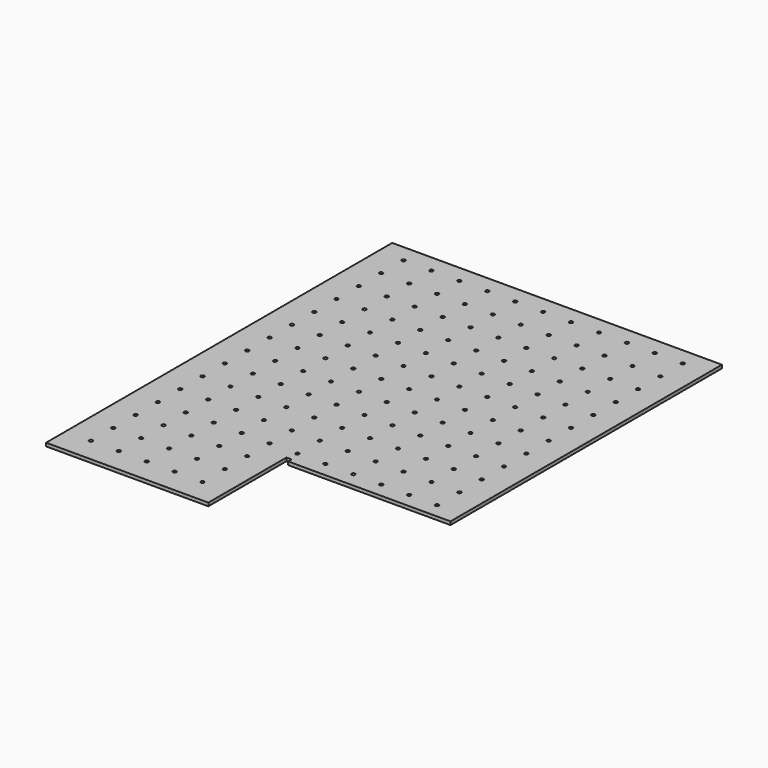
from build123d import *

# Parameters (mm, degrees)
SKETCH_R      = 3.175
EXTRUDE_DEPTH = 5.9944


with BuildPart() as part:
    # Sketch → Extrude (new body)
    with BuildSketch(Plane.XY):
        Polygon((0, 0), (600.075, 0), (600.075, -617.5502), (304.8, -617.5502), (304.8, -609.6), (295.275, -609.6), (295.275, -787.4), (0, -787.4), align=None)
        with Locations((46.0502, -31.75)):
            Circle(SKETCH_R, mode=Mode.SUBTRACT)
        with Locations((96.8502, -31.75)):
            Circle(SKETCH_R, mode=Mode.SUBTRACT)
        with Locations((147.6502, -31.75)):
            Circle(SKETCH_R, mode=Mode.SUBTRACT)
        with Locations((198.4502, -31.75)):
            Circle(SKETCH_R, mode=Mode.SUBTRACT)
        with Locations((249.2502, -31.75)):
            Circle(SKETCH_R, mode=Mode.SUBTRACT)
        with Locations((300.0502, -31.75)):
            Circle(SKETCH_R, mode=Mode.SUBTRACT)
        with Locations((350.8502, -31.75)):
            Circle(SKETCH_R, mode=Mode.SUBTRACT)
        with Locations((401.6502, -31.75)):
            Circle(SKETCH_R, mode=Mode.SUBTRACT)
        with Locations((452.4502, -31.75)):
            Circle(SKETCH_R, mode=Mode.SUBTRACT)
        with Locations((503.2502, -31.75)):
            Circle(SKETCH_R, mode=Mode.SUBTRACT)
        with Locations((554.0502, -31.75)):
            Circle(SKETCH_R, mode=Mode.SUBTRACT)
        with Locations((46.0502, -82.55)):
            Circle(SKETCH_R, mode=Mode.SUBTRACT)
        with Locations((96.8502, -82.55)):
            Circle(SKETCH_R, mode=Mode.SUBTRACT)
        with Locations((147.6502, -82.55)):
            Circle(SKETCH_R, mode=Mode.SUBTRACT)
        with Locations((198.4502, -82.55)):
            Circle(SKETCH_R, mode=Mode.SUBTRACT)
        with Locations((249.2502, -82.55)):
            Circle(SKETCH_R, mode=Mode.SUBTRACT)
        with Locations((300.0502, -82.55)):
            Circle(SKETCH_R, mode=Mode.SUBTRACT)
        with Locations((350.8502, -82.55)):
            Circle(SKETCH_R, mode=Mode.SUBTRACT)
        with Locations((401.6502, -82.55)):
            Circle(SKETCH_R, mode=Mode.SUBTRACT)
        with Locations((452.4502, -82.55)):
            Circle(SKETCH_R, mode=Mode.SUBTRACT)
        with Locations((503.2502, -82.55)):
            Circle(SKETCH_R, mode=Mode.SUBTRACT)
        with Locations((554.0502, -82.55)):
            Circle(SKETCH_R, mode=Mode.SUBTRACT)
        with Locations((46.0502, -133.35)):
            Circle(SKETCH_R, mode=Mode.SUBTRACT)
        with Locations((96.8502, -133.35)):
            Circle(SKETCH_R, mode=Mode.SUBTRACT)
        with Locations((147.6502, -133.35)):
            Circle(SKETCH_R, mode=Mode.SUBTRACT)
        with Locations((198.4502, -133.35)):
            Circle(SKETCH_R, mode=Mode.SUBTRACT)
        with Locations((249.2502, -133.35)):
            Circle(SKETCH_R, mode=Mode.SUBTRACT)
        with Locations((300.0502, -133.35)):
            Circle(SKETCH_R, mode=Mode.SUBTRACT)
        with Locations((350.8502, -133.35)):
            Circle(SKETCH_R, mode=Mode.SUBTRACT)
        with Locations((401.6502, -133.35)):
            Circle(SKETCH_R, mode=Mode.SUBTRACT)
        with Locations((452.4502, -133.35)):
            Circle(SKETCH_R, mode=Mode.SUBTRACT)
        with Locations((503.2502, -133.35)):
            Circle(SKETCH_R, mode=Mode.SUBTRACT)
        with Locations((554.0502, -133.35)):
            Circle(SKETCH_R, mode=Mode.SUBTRACT)
        with Locations((46.0502, -184.15)):
            Circle(SKETCH_R, mode=Mode.SUBTRACT)
        with Locations((96.8502, -184.15)):
            Circle(SKETCH_R, mode=Mode.SUBTRACT)
        with Locations((147.6502, -184.15)):
            Circle(SKETCH_R, mode=Mode.SUBTRACT)
        with Locations((198.4502, -184.15)):
            Circle(SKETCH_R, mode=Mode.SUBTRACT)
        with Locations((249.2502, -184.15)):
            Circle(SKETCH_R, mode=Mode.SUBTRACT)
        with Locations((300.0502, -184.15)):
            Circle(SKETCH_R, mode=Mode.SUBTRACT)
        with Locations((350.8502, -184.15)):
            Circle(SKETCH_R, mode=Mode.SUBTRACT)
        with Locations((401.6502, -184.15)):
            Circle(SKETCH_R, mode=Mode.SUBTRACT)
        with Locations((452.4502, -184.15)):
            Circle(SKETCH_R, mode=Mode.SUBTRACT)
        with Locations((503.2502, -184.15)):
            Circle(SKETCH_R, mode=Mode.SUBTRACT)
        with Locations((554.0502, -184.15)):
            Circle(SKETCH_R, mode=Mode.SUBTRACT)
        with Locations((46.0502, -234.95)):
            Circle(SKETCH_R, mode=Mode.SUBTRACT)
        with Locations((96.8502, -234.95)):
            Circle(SKETCH_R, mode=Mode.SUBTRACT)
        with Locations((147.6502, -234.95)):
            Circle(SKETCH_R, mode=Mode.SUBTRACT)
        with Locations((198.4502, -234.95)):
            Circle(SKETCH_R, mode=Mode.SUBTRACT)
        with Locations((249.2502, -234.95)):
            Circle(SKETCH_R, mode=Mode.SUBTRACT)
        with Locations((300.0502, -234.95)):
            Circle(SKETCH_R, mode=Mode.SUBTRACT)
        with Locations((350.8502, -234.95)):
            Circle(SKETCH_R, mode=Mode.SUBTRACT)
        with Locations((401.6502, -234.95)):
            Circle(SKETCH_R, mode=Mode.SUBTRACT)
        with Locations((452.4502, -234.95)):
            Circle(SKETCH_R, mode=Mode.SUBTRACT)
        with Locations((503.2502, -234.95)):
            Circle(SKETCH_R, mode=Mode.SUBTRACT)
        with Locations((554.0502, -234.95)):
            Circle(SKETCH_R, mode=Mode.SUBTRACT)
        with Locations((46.0502, -285.75)):
            Circle(SKETCH_R, mode=Mode.SUBTRACT)
        with Locations((96.8502, -285.75)):
            Circle(SKETCH_R, mode=Mode.SUBTRACT)
        with Locations((147.6502, -285.75)):
            Circle(SKETCH_R, mode=Mode.SUBTRACT)
        with Locations((198.4502, -285.75)):
            Circle(SKETCH_R, mode=Mode.SUBTRACT)
        with Locations((249.2502, -285.75)):
            Circle(SKETCH_R, mode=Mode.SUBTRACT)
        with Locations((300.0502, -285.75)):
            Circle(SKETCH_R, mode=Mode.SUBTRACT)
        with Locations((350.8502, -285.75)):
            Circle(SKETCH_R, mode=Mode.SUBTRACT)
        with Locations((401.6502, -285.75)):
            Circle(SKETCH_R, mode=Mode.SUBTRACT)
        with Locations((452.4502, -285.75)):
            Circle(SKETCH_R, mode=Mode.SUBTRACT)
        with Locations((503.2502, -285.75)):
            Circle(SKETCH_R, mode=Mode.SUBTRACT)
        with Locations((554.0502, -285.75)):
            Circle(SKETCH_R, mode=Mode.SUBTRACT)
        with Locations((46.0502, -336.55)):
            Circle(SKETCH_R, mode=Mode.SUBTRACT)
        with Locations((96.8502, -336.55)):
            Circle(SKETCH_R, mode=Mode.SUBTRACT)
        with Locations((147.6502, -336.55)):
            Circle(SKETCH_R, mode=Mode.SUBTRACT)
        with Locations((198.4502, -336.55)):
            Circle(SKETCH_R, mode=Mode.SUBTRACT)
        with Locations((249.2502, -336.55)):
            Circle(SKETCH_R, mode=Mode.SUBTRACT)
        with Locations((300.0502, -336.55)):
            Circle(SKETCH_R, mode=Mode.SUBTRACT)
        with Locations((350.8502, -336.55)):
            Circle(SKETCH_R, mode=Mode.SUBTRACT)
        with Locations((401.6502, -336.55)):
            Circle(SKETCH_R, mode=Mode.SUBTRACT)
        with Locations((452.4502, -336.55)):
            Circle(SKETCH_R, mode=Mode.SUBTRACT)
        with Locations((503.2502, -336.55)):
            Circle(SKETCH_R, mode=Mode.SUBTRACT)
        with Locations((554.0502, -336.55)):
            Circle(SKETCH_R, mode=Mode.SUBTRACT)
        with Locations((46.0502, -387.35)):
            Circle(SKETCH_R, mode=Mode.SUBTRACT)
        with Locations((96.8502, -387.35)):
            Circle(SKETCH_R, mode=Mode.SUBTRACT)
        with Locations((147.6502, -387.35)):
            Circle(SKETCH_R, mode=Mode.SUBTRACT)
        with Locations((198.4502, -387.35)):
            Circle(SKETCH_R, mode=Mode.SUBTRACT)
        with Locations((249.2502, -387.35)):
            Circle(SKETCH_R, mode=Mode.SUBTRACT)
        with Locations((300.0502, -387.35)):
            Circle(SKETCH_R, mode=Mode.SUBTRACT)
        with Locations((350.8502, -387.35)):
            Circle(SKETCH_R, mode=Mode.SUBTRACT)
        with Locations((401.6502, -387.35)):
            Circle(SKETCH_R, mode=Mode.SUBTRACT)
        with Locations((452.4502, -387.35)):
            Circle(SKETCH_R, mode=Mode.SUBTRACT)
        with Locations((503.2502, -387.35)):
            Circle(SKETCH_R, mode=Mode.SUBTRACT)
        with Locations((554.0502, -387.35)):
            Circle(SKETCH_R, mode=Mode.SUBTRACT)
        with Locations((46.0502, -438.15)):
            Circle(SKETCH_R, mode=Mode.SUBTRACT)
        with Locations((96.8502, -438.15)):
            Circle(SKETCH_R, mode=Mode.SUBTRACT)
        with Locations((147.6502, -438.15)):
            Circle(SKETCH_R, mode=Mode.SUBTRACT)
        with Locations((198.4502, -438.15)):
            Circle(SKETCH_R, mode=Mode.SUBTRACT)
        with Locations((249.2502, -438.15)):
            Circle(SKETCH_R, mode=Mode.SUBTRACT)
        with Locations((300.0502, -438.15)):
            Circle(SKETCH_R, mode=Mode.SUBTRACT)
        with Locations((350.8502, -438.15)):
            Circle(SKETCH_R, mode=Mode.SUBTRACT)
        with Locations((401.6502, -438.15)):
            Circle(SKETCH_R, mode=Mode.SUBTRACT)
        with Locations((452.4502, -438.15)):
            Circle(SKETCH_R, mode=Mode.SUBTRACT)
        with Locations((503.2502, -438.15)):
            Circle(SKETCH_R, mode=Mode.SUBTRACT)
        with Locations((554.0502, -438.15)):
            Circle(SKETCH_R, mode=Mode.SUBTRACT)
        with Locations((46.0502, -488.95)):
            Circle(SKETCH_R, mode=Mode.SUBTRACT)
        with Locations((96.8502, -488.95)):
            Circle(SKETCH_R, mode=Mode.SUBTRACT)
        with Locations((147.6502, -488.95)):
            Circle(SKETCH_R, mode=Mode.SUBTRACT)
        with Locations((198.4502, -488.95)):
            Circle(SKETCH_R, mode=Mode.SUBTRACT)
        with Locations((249.2502, -488.95)):
            Circle(SKETCH_R, mode=Mode.SUBTRACT)
        with Locations((300.0502, -488.95)):
            Circle(SKETCH_R, mode=Mode.SUBTRACT)
        with Locations((350.8502, -488.95)):
            Circle(SKETCH_R, mode=Mode.SUBTRACT)
        with Locations((401.6502, -488.95)):
            Circle(SKETCH_R, mode=Mode.SUBTRACT)
        with Locations((452.4502, -488.95)):
            Circle(SKETCH_R, mode=Mode.SUBTRACT)
        with Locations((503.2502, -488.95)):
            Circle(SKETCH_R, mode=Mode.SUBTRACT)
        with Locations((554.0502, -488.95)):
            Circle(SKETCH_R, mode=Mode.SUBTRACT)
        with Locations((46.0502, -539.75)):
            Circle(SKETCH_R, mode=Mode.SUBTRACT)
        with Locations((96.8502, -539.75)):
            Circle(SKETCH_R, mode=Mode.SUBTRACT)
        with Locations((147.6502, -539.75)):
            Circle(SKETCH_R, mode=Mode.SUBTRACT)
        with Locations((198.4502, -539.75)):
            Circle(SKETCH_R, mode=Mode.SUBTRACT)
        with Locations((249.2502, -539.75)):
            Circle(SKETCH_R, mode=Mode.SUBTRACT)
        with Locations((300.0502, -539.75)):
            Circle(SKETCH_R, mode=Mode.SUBTRACT)
        with Locations((350.8502, -539.75)):
            Circle(SKETCH_R, mode=Mode.SUBTRACT)
        with Locations((401.6502, -539.75)):
            Circle(SKETCH_R, mode=Mode.SUBTRACT)
        with Locations((452.4502, -539.75)):
            Circle(SKETCH_R, mode=Mode.SUBTRACT)
        with Locations((503.2502, -539.75)):
            Circle(SKETCH_R, mode=Mode.SUBTRACT)
        with Locations((554.0502, -539.75)):
            Circle(SKETCH_R, mode=Mode.SUBTRACT)
        with Locations((46.0502, -590.55)):
            Circle(SKETCH_R, mode=Mode.SUBTRACT)
        with Locations((96.8502, -590.55)):
            Circle(SKETCH_R, mode=Mode.SUBTRACT)
        with Locations((147.6502, -590.55)):
            Circle(SKETCH_R, mode=Mode.SUBTRACT)
        with Locations((198.4502, -590.55)):
            Circle(SKETCH_R, mode=Mode.SUBTRACT)
        with Locations((249.2502, -590.55)):
            Circle(SKETCH_R, mode=Mode.SUBTRACT)
        with Locations((300.0502, -590.55)):
            Circle(SKETCH_R, mode=Mode.SUBTRACT)
        with Locations((350.8502, -590.55)):
            Circle(SKETCH_R, mode=Mode.SUBTRACT)
        with Locations((401.6502, -590.55)):
            Circle(SKETCH_R, mode=Mode.SUBTRACT)
        with Locations((452.4502, -590.55)):
            Circle(SKETCH_R, mode=Mode.SUBTRACT)
        with Locations((503.2502, -590.55)):
            Circle(SKETCH_R, mode=Mode.SUBTRACT)
        with Locations((554.0502, -590.55)):
            Circle(SKETCH_R, mode=Mode.SUBTRACT)
        with Locations((46.0502, -641.35)):
            Circle(SKETCH_R, mode=Mode.SUBTRACT)
        with Locations((96.8502, -641.35)):
            Circle(SKETCH_R, mode=Mode.SUBTRACT)
        with Locations((147.6502, -641.35)):
            Circle(SKETCH_R, mode=Mode.SUBTRACT)
        with Locations((198.4502, -641.35)):
            Circle(SKETCH_R, mode=Mode.SUBTRACT)
        with Locations((249.2502, -641.35)):
            Circle(SKETCH_R, mode=Mode.SUBTRACT)
        with Locations((46.0502, -692.15)):
            Circle(SKETCH_R, mode=Mode.SUBTRACT)
        with Locations((96.8502, -692.15)):
            Circle(SKETCH_R, mode=Mode.SUBTRACT)
        with Locations((147.6502, -692.15)):
            Circle(SKETCH_R, mode=Mode.SUBTRACT)
        with Locations((198.4502, -692.15)):
            Circle(SKETCH_R, mode=Mode.SUBTRACT)
        with Locations((249.2502, -692.15)):
            Circle(SKETCH_R, mode=Mode.SUBTRACT)
        with Locations((46.0502, -742.95)):
            Circle(SKETCH_R, mode=Mode.SUBTRACT)
        with Locations((96.8502, -742.95)):
            Circle(SKETCH_R, mode=Mode.SUBTRACT)
        with Locations((147.6502, -742.95)):
            Circle(SKETCH_R, mode=Mode.SUBTRACT)
        with Locations((198.4502, -742.95)):
            Circle(SKETCH_R, mode=Mode.SUBTRACT)
        with Locations((249.2502, -742.95)):
            Circle(SKETCH_R, mode=Mode.SUBTRACT)
    extrude(amount=EXTRUDE_DEPTH)


solid = part.part
